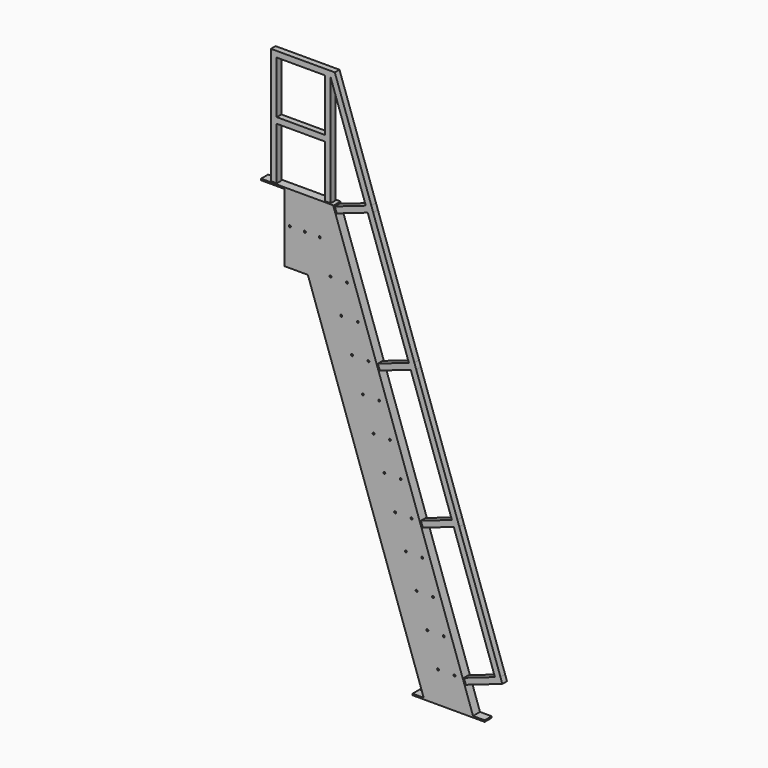
from build123d import *

# Parameters (mm, degrees)
F0_R     = 6.35
F1_DEPTH = 28.575
F0_W     = 314.4648429592
F0_H     = 38.1
F2_DEPTH = 19.05


with BuildPart() as f1:
    # F0 (on Front) → F1 (new body, symmetric)
    with BuildSketch(Plane.XZ):
        Polygon((914.4, 0), (911.1028846154, 9.525), (838.2, 9.525), (838.2, 0), align=None)
        Polygon((1233.6473205248, 9.525), (1236.9444359094, 0), (1309.8473205248, 0), (1309.8473205248, 9.525), align=None)
        Polygon((153.8653846154, 2197.1), (0, 2641.6), (0, 2457.45), (0, 2419.35), (0, 2197.1), align=None)
        with Locations((36.7400827979, 2438.4)):
            Circle(F0_R, mode=Mode.SUBTRACT)
        Polygon((-152.4, 2641.6), (0, 2641.6), (0, 2651.125), (-57.15, 2651.125), (-95.25, 2651.125), (-152.4, 2651.125), align=None)
        Polygon((0, 2651.125), (0, 2641.6), (322.5444359094, 2641.6), (322.5444359094, 2651.125), (295.4148429592, 2651.125), (257.3148429592, 2651.125), align=None)
        Polygon((322.5444359094, 2641.6), (0, 2641.6), (153.8653846154, 2197.1), (911.1028846154, 9.525), (914.4, 0), (1236.9444359094, 0), (1233.6473205248, 9.525), (1179.0688868549, 167.1960306019), (1166.6059743709, 203.2), (955.5905897555, 812.8), (917.4905897555, 922.8666666667), (897.715040701, 979.9960306019), (885.2521282171, 1016), (616.3611945472, 1792.7960306019), (603.8982820632, 1828.8), (565.7982820632, 1938.8666666667), (335.0073483933, 2605.5960306019), align=None)
        with Locations((583.3029871855, 1422.4)):
            Circle(F0_R, mode=Mode.SUBTRACT)
        with Locations((512.964525647, 1625.6)):
            Circle(F0_R, mode=Mode.SUBTRACT)
        with Locations((620.4793376168, 1625.6)):
            Circle(F0_R, mode=Mode.SUBTRACT)
        with Locations((1005.3337564162, 203.2)):
            Circle(F0_R, mode=Mode.SUBTRACT)
        with Locations((934.9952948778, 406.4)):
            Circle(F0_R, mode=Mode.SUBTRACT)
        with Locations((794.3183718008, 812.8)):
            Circle(F0_R, mode=Mode.SUBTRACT)
        with Locations((864.6568333393, 609.6)):
            Circle(F0_R, mode=Mode.SUBTRACT)
        with Locations((972.1716453091, 609.6)):
            Circle(F0_R, mode=Mode.SUBTRACT)
        with Locations((901.8331837706, 812.8)):
            Circle(F0_R, mode=Mode.SUBTRACT)
        with Locations((1112.848568386, 203.2)):
            Circle(F0_R, mode=Mode.SUBTRACT)
        with Locations((1042.5101068476, 406.4)):
            Circle(F0_R, mode=Mode.SUBTRACT)
        with Locations((723.9799102624, 1016)):
            Circle(F0_R, mode=Mode.SUBTRACT)
        with Locations((653.6414487239, 1219.2)):
            Circle(F0_R, mode=Mode.SUBTRACT)
        with Locations((761.1562606937, 1219.2)):
            Circle(F0_R, mode=Mode.SUBTRACT)
        with Locations((831.4947222322, 1016)):
            Circle(F0_R, mode=Mode.SUBTRACT)
        with Locations((690.8177991552, 1422.4)):
            Circle(F0_R, mode=Mode.SUBTRACT)
        with Locations((134.1753811455, 2438.4)):
            Circle(F0_R, mode=Mode.SUBTRACT)
        with Locations((231.6106794931, 2438.4)):
            Circle(F0_R, mode=Mode.SUBTRACT)
        with Locations((372.2876025701, 2032)):
            Circle(F0_R, mode=Mode.SUBTRACT)
        with Locations((442.6260641085, 1828.8)):
            Circle(F0_R, mode=Mode.SUBTRACT)
        with Locations((550.1408760783, 1828.8)):
            Circle(F0_R, mode=Mode.SUBTRACT)
        with Locations((479.8024145399, 2032)):
            Circle(F0_R, mode=Mode.SUBTRACT)
        with Locations((301.9491410316, 2235.2)):
            Circle(F0_R, mode=Mode.SUBTRACT)
        with Locations((409.4639530014, 2235.2)):
            Circle(F0_R, mode=Mode.SUBTRACT)
    extrude(amount=F1_DEPTH, both=True)

    # F0 (on Front) → F2 (join, symmetric)
    with BuildSketch(Plane.XZ):
        Polygon((573.497242713, 2688.1502247895), (537.4932733149, 2675.6873123056), (806.3842069848, 1898.8912817036), (842.3881763829, 1911.3541941876), align=None)
        Polygon((854.8510888668, 1875.3502247895), (818.8471194688, 1862.8873123056), (1087.7380531387, 1086.0912817036), (1123.7420225367, 1098.5541941876), align=None)
        Polygon((842.3881763829, 1911.3541941876), (806.3842069848, 1898.8912817036), (818.8471194688, 1862.8873123056), (854.8510888668, 1875.3502247895), align=None)
        Polygon((806.3842069848, 1898.8912817036), (603.8982820632, 1828.8), (616.3611945472, 1792.7960306019), (818.8471194688, 1862.8873123056), align=None)
        Polygon((525.030360831, 2711.6912817036), (322.5444359094, 2641.6), (335.0073483933, 2605.5960306019), (537.4932733149, 2675.6873123056), align=None)
        Polygon((257.3148429592, 2994.025), (257.3148429592, 2651.125), (295.4148429592, 2651.125), (295.4148429592, 3375.025), (257.3148429592, 3375.025), (257.3148429592, 3032.125), align=None)
        with Locations((100.0824214796, 3013.075)):
            Rectangle(F0_W, F0_H)
        Polygon((561.0343302291, 2724.1541941876), (525.030360831, 2711.6912817036), (537.4932733149, 2675.6873123056), (573.497242713, 2688.1502247895), align=None)
        Polygon((295.4148429592, 3375.025), (525.030360831, 2711.6912817036), (561.0343302291, 2724.1541941876), (322.5444359094, 3413.125), (-95.25, 3413.125), (-95.25, 2651.125), (-57.15, 2651.125), (-57.15, 2994.025), (-57.15, 3032.125), (-57.15, 3375.025), (257.3148429592, 3375.025), align=None)
        Polygon((1136.2049350207, 1062.5502247895), (1100.2009656226, 1050.0873123056), (1369.0918992925, 273.2912817036), (1405.0958686906, 285.7541941876), align=None)
        Polygon((1123.7420225367, 1098.5541941876), (1087.7380531387, 1086.0912817036), (1100.2009656226, 1050.0873123056), (1136.2049350207, 1062.5502247895), align=None)
        Polygon((1087.7380531387, 1086.0912817036), (885.2521282171, 1016), (897.715040701, 979.9960306019), (1100.2009656226, 1050.0873123056), align=None)
        Polygon((1166.6059743709, 203.2), (1179.0688868549, 167.1960306019), (1417.5587811745, 249.7502247895), (1405.0958686906, 285.7541941876), (1369.0918992925, 273.2912817036), align=None)
    extrude(amount=F2_DEPTH, both=True)


solid = f1.part
